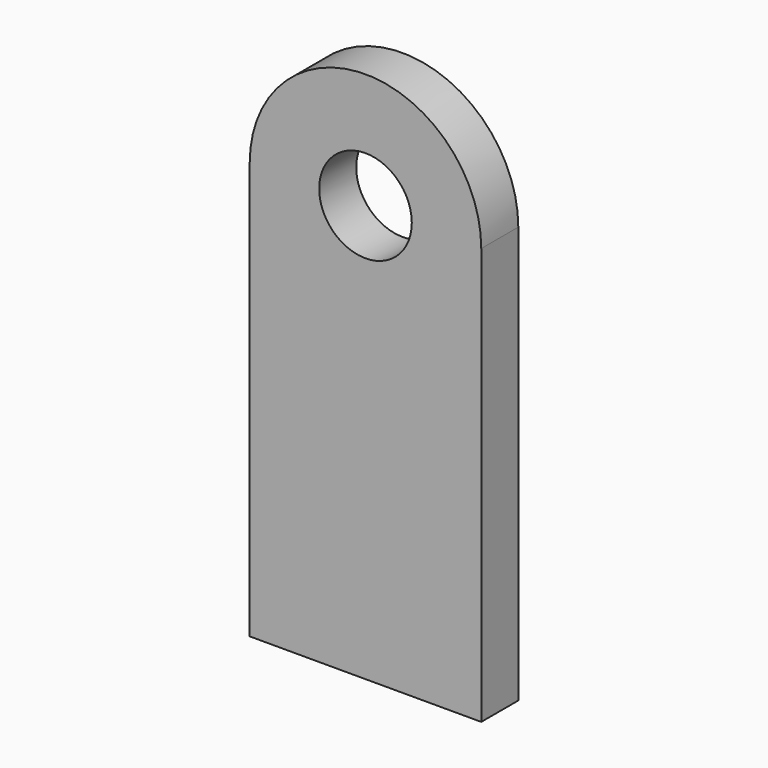
from build123d import *

# Parameters (mm, degrees)
F0_R     = 127
F1_DEPTH = 127


with BuildPart() as f1:
    # F0 (on Front) → F1 (new body)
    with BuildSketch(Plane.XZ):
        with BuildLine():
            ThreePointArc((-317.5, 641.227615), (0, 323.727615), (317.5, 641.227615))
            ThreePointArc((317.5, 641.227615), (0, 958.727615), (-317.5, 641.227615))
        make_face()
        with Locations((0, 641.227615)):
            Circle(F0_R, mode=Mode.SUBTRACT)
        with BuildLine():
            Line((317.5, -501.772385), (317.5, 641.227615))
            ThreePointArc((317.5, 641.227615), (0, 323.727615), (-317.5, 641.227615))
            Line((-317.5, 641.227615), (-317.5, -501.772385))
            Line((-317.5, -501.772385), (317.5, -501.772385))
        make_face()
    extrude(amount=F1_DEPTH)


solid = f1.part
